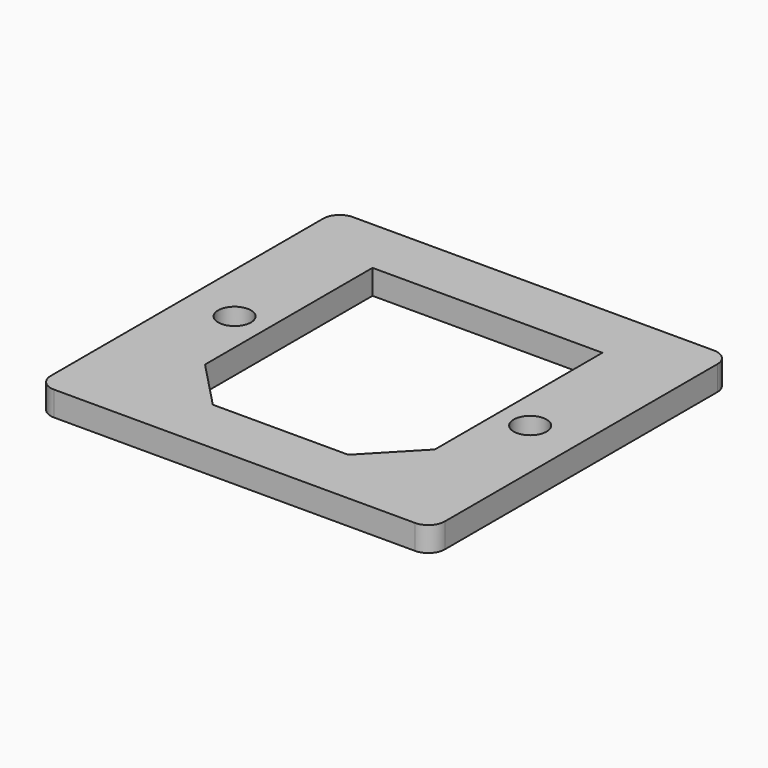
from build123d import *

# Parameters (mm, degrees)
SKETCH_W  = 48
SKETCH_H  = 45.5
SKETCH_R  = 2
PAD_DEPTH = 3
FILLET_R  = 2


with BuildPart() as part:
    # Sketch → Pad (new body)
    with BuildSketch(Plane.XY):
        with Locations((0, -3)):
            Rectangle(SKETCH_W, SKETCH_H)
        with Locations((-18, -3.25)):
            Circle(SKETCH_R, mode=Mode.SUBTRACT)
        with Locations((18, -3.25)):
            Circle(SKETCH_R, mode=Mode.SUBTRACT)
        Polygon((-14, 12.75), (14, 12.75), (14, -12.75), (8.25, -18.75), (-8.25, -18.75), (-14, -12.75), align=None, mode=Mode.SUBTRACT)
    extrude(amount=PAD_DEPTH)

    # Fillet
    fillet_edges = [part.edges().sort_by_distance(p)[0] for p in [
        (-24, -25.75, 1.5),
        (24, -25.75, 1.5),
        (24, 19.75, 1.5),
        (-24, 19.75, 1.5),
    ]]
    fillet(fillet_edges, radius=FILLET_R)


solid = part.part
